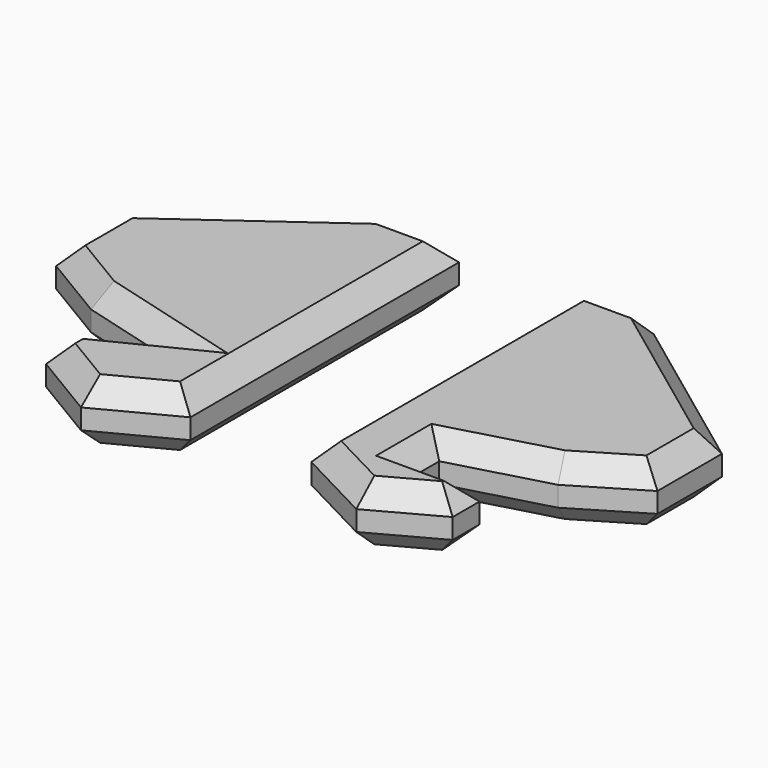
from build123d import *

# Parameters (mm, degrees)
F1_DEPTH = 4.5
F2_DEPTH = 4.5
F3_SIZE  = 1.5


with BuildPart() as f1:
    # F0 (on Top) → F1 (new body)
    with BuildSketch(Plane.XY):
        Polygon((16.807074, -44.790203), (16.807074, -38.790203), (4.307074, -29.508229), (-1.192926, -29.508229), (-1.192926, -52.008229), (-1.192926, -54.508229), (4.557074, -57.508229), (9.557074, -54.790203), (9.557074, -52.290203), (4.557074, -52.290203), (4.557074, -49.790203), (11.807074, -47.790203), align=None)
    extrude(amount=F1_DEPTH)

    # F0 (on Top) → F2 (join)
    with BuildSketch(Plane.XY):
        Polygon((-15.692926, -29.508229), (-28.192926, -38.508229), (-28.192926, -44.508229), (-23.192926, -47.508229), (-15.942926, -49.508229), (-20.942926, -52.008229), (-20.942926, -54.508229), (-15.942926, -57.508229), (-10.192926, -54.508229), (-10.192926, -52.008229), (-10.192926, -29.508229), align=None)
        Polygon((16.807074, -44.790203), (16.807074, -38.790203), (4.307074, -29.508229), (-1.192926, -29.508229), (-1.192926, -52.008229), (-1.192926, -54.508229), (4.557074, -57.508229), (9.557074, -54.790203), (9.557074, -52.290203), (4.557074, -52.290203), (4.557074, -49.790203), (11.807074, -47.790203), align=None)
    extrude(amount=F2_DEPTH)

    # F3
    f3_edges = [f1.edges().sort_by_distance(p)[0] for p in [
        (10.557074, -34.149216, 4.5),
        (1.557074, -29.508229, 4.5),
        (-1.192926, -42.008229, 4.5),
        (1.682074, -56.008229, 4.5),
        (7.057074, -56.149216, 4.5),
        (9.557074, -53.540203, 4.5),
        (7.057074, -52.290203, 4.5),
        (4.557074, -51.040203, 4.5),
        (8.182074, -48.790203, 4.5),
        (14.307074, -46.290203, 4.5),
        (16.807074, -41.790203, 4.5),
        (10.557074, -34.149216, 0),
        (1.557074, -29.508229, 0),
        (-1.192926, -42.008229, 0),
        (1.682074, -56.008229, 0),
        (7.057074, -56.149216, 0),
        (9.557074, -53.540203, 0),
        (7.057074, -52.290203, 0),
        (4.557074, -51.040203, 0),
        (8.182074, -48.790203, 0),
        (14.307074, -46.290203, 0),
        (16.807074, -41.790203, 0),
        (-10.192926, -42.008229, 4.5),
        (-12.942926, -29.508229, 4.5),
        (-21.942926, -34.008229, 4.5),
        (-28.192926, -41.508229, 4.5),
        (-25.692926, -46.008229, 4.5),
        (-19.567926, -48.508229, 4.5),
        (-18.442926, -50.758229, 4.5),
        (-20.942926, -53.258229, 4.5),
        (-18.442926, -56.008229, 4.5),
        (-13.067926, -56.008229, 4.5),
        (-10.192926, -42.008229, 0),
        (-12.942926, -29.508229, 0),
        (-21.942926, -34.008229, 0),
        (-28.192926, -41.508229, 0),
        (-25.692926, -46.008229, 0),
        (-19.567926, -48.508229, 0),
        (-18.442926, -50.758229, 0),
        (-20.942926, -53.258229, 0),
        (-18.442926, -56.008229, 0),
        (-13.067926, -56.008229, 0),
    ]]
    chamfer(f3_edges, length=F3_SIZE)


solid = f1.part
